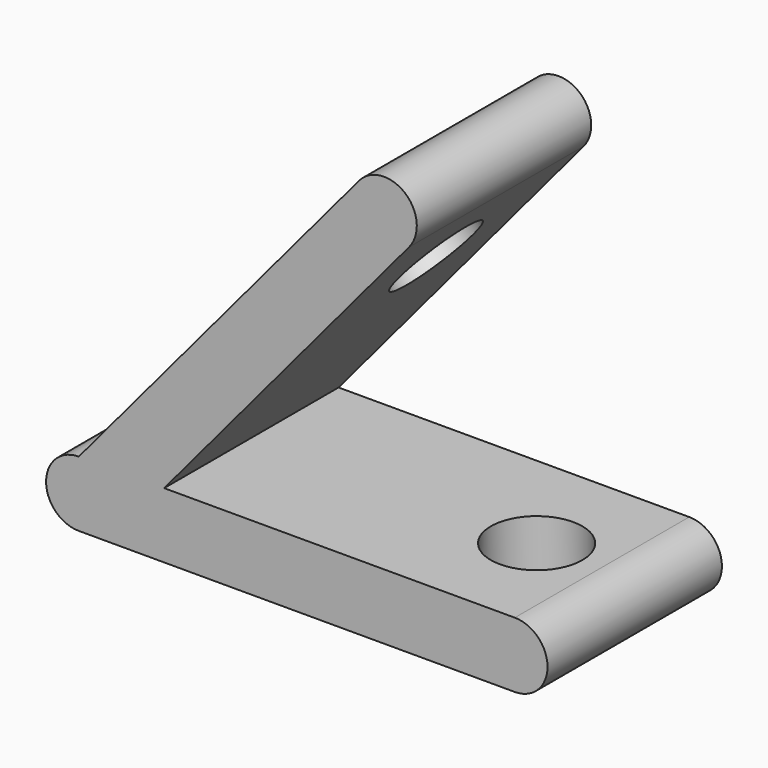
from build123d import *

# Parameters (mm, degrees)
CYLINDER001_R               = 2.1
CYLINDER001_DEPTH           = 10
CYLINDER001_PLACEMENT_ANGLE = 45
CYLINDER_R                  = 2.1
CYLINDER_DEPTH              = 10
PAD_DEPTH                   = 10


with BuildPart() as insert_hole001:
    # Cylinder001 → Cylinder001 (new body)
    with BuildSketch(Plane.XY):
        Circle(CYLINDER001_R)
    extrude(amount=CYLINDER001_DEPTH)


with BuildPart() as insert_hole001_1:
    # Cylinder001 placement: moved
    add(insert_hole001.part.moved(Location((15.585786, 5, 9.899495))).rotate(Axis((15.585786, 5, 9.899495), (0, -1, 0)), CYLINDER001_PLACEMENT_ANGLE))


with BuildPart() as hole_fusion:
    # Cylinder → Cylinder (new body)
    with BuildSketch(Plane(origin=(17, 5, 0), x_dir=(1, 0, 0), z_dir=(0, 0, 1))):
        Circle(CYLINDER_R)
    extrude(amount=CYLINDER_DEPTH)

    # Fusion: union insert hole001
    add(insert_hole001_1.part)


with BuildPart() as angle_cut:
    # Sketch → Pad (new body)
    with BuildSketch(Plane.XZ):
        with BuildLine():
            Line((12.855752, 18.320889), (0, 3))
            ThreePointArc((0, 3), (-1.5, 1.5), (0, 0))
            Line((0, 0), (20, 0))
            ThreePointArc((20, 0), (21.5, 1.5), (20, 3))
            Line((20, 3), (3.916222, 3))
            Line((3.916222, 3), (15.153886, 16.392526))
            ThreePointArc((15.153886, 16.392526), (14.969, 18.505774), (12.855752, 18.320889))
        make_face()
    extrude(amount=-PAD_DEPTH)

    # Cut: cut hole fusion
    add(hole_fusion.part, mode=Mode.SUBTRACT)


solid = angle_cut.part
